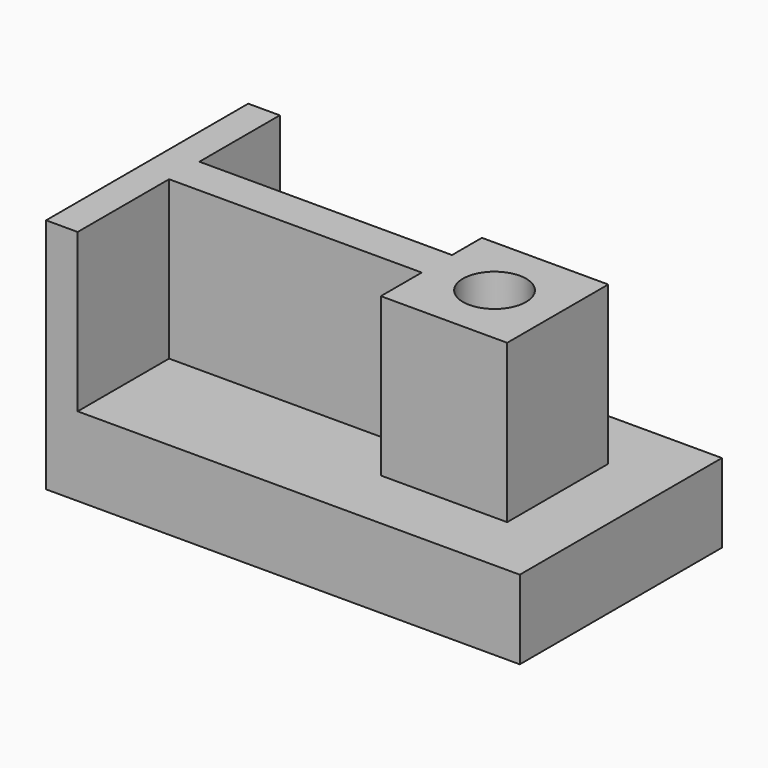
from build123d import *

# Parameters (mm, degrees)
F0_W     = 150
F0_H     = 80
F1_DEPTH = 25
F2_W     = 40
F2_H     = 40
F3_DEPTH = 50
F4_R     = 10
F5_DEPTH = 75
F7_DEPTH = 50
F9_DEPTH = 50


with BuildPart() as f1:
    # F0 (on Top) → F1 (new body)
    with BuildSketch(Plane.XY):
        with Locations((-9.3162462115, -8.1807105243)):
            Rectangle(F0_W, F0_H)
    extrude(amount=F1_DEPTH)

    # F2 (on face) → F3 (join)
    with BuildSketch(Plane.XY.offset(25)):
        with Locations((25.6837537885, -8.1807105243)):
            Rectangle(F2_W, F2_H)
    extrude(amount=F3_DEPTH)

    # F4 (on face) → F5 (cut)
    with BuildSketch(Plane.XY.offset(75)):
        with Locations((25.6837537885, -8.1807105243)):
            Circle(F4_R)
    extrude(amount=-F5_DEPTH, mode=Mode.SUBTRACT)

    # F6 (on face) → F7 (join)
    with BuildSketch(Plane.XY.offset(25)):
        Polygon((5.6837537885, 0), (-74.3162462115, 0), (-74.3162462115, -12), (5.6837537885, -12), (5.6837537885, -8.1807105243), align=None)
    extrude(amount=F7_DEPTH)

    # F8 (on face) → F9 (join)
    with BuildSketch(Plane.XY.offset(25)):
        Polygon((-84.3162462115, 31.8192894757), (-84.3162462115, -48.1807105243), (-74.3162462115, -48.1807105243), (-74.3162462115, -12), (-74.3162462115, 0), (-74.3162462115, 31.8192894757), align=None)
    extrude(amount=F9_DEPTH)


solid = f1.part
